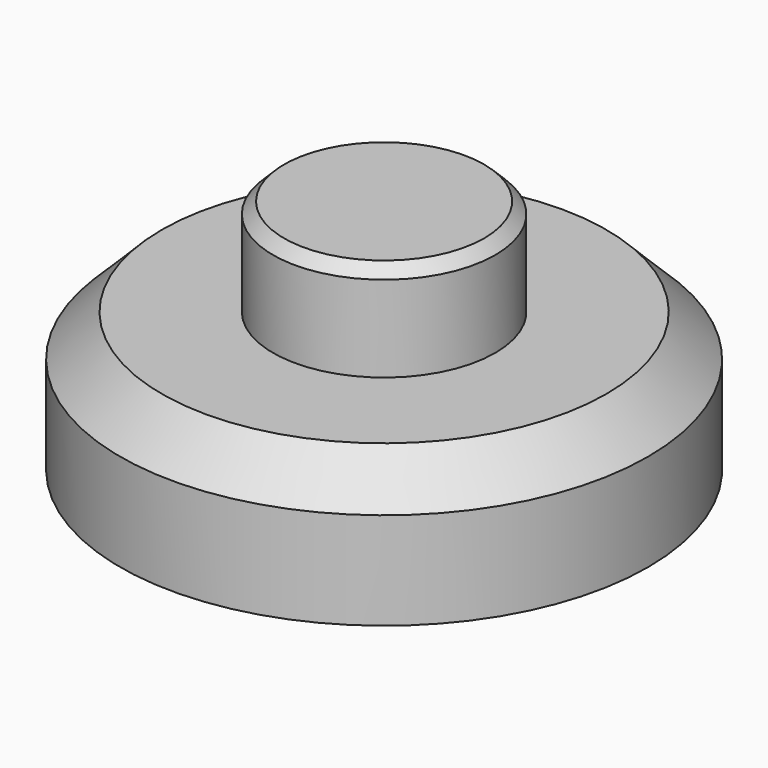
from build123d import *

# Parameters (mm, degrees)
F0_R     = 9.5
F1_DEPTH = 5
F2_R     = 4
F3_DEPTH = 3.5
F4_SIZE  = 1.5
F5_SIZE  = 0.4


with BuildPart() as f1:
    # F0 (on Top) → F1 (new body)
    with BuildSketch(Plane.XY):
        Circle(F0_R)
    extrude(amount=F1_DEPTH)

    # F2 (on face) → F3 (join)
    with BuildSketch(Plane.XY.offset(5)):
        Circle(F2_R)
    extrude(amount=F3_DEPTH)

    # F4
    f4_edges = [f1.edges().sort_by_distance(p)[0] for p in [
        (-9.5, 0, 5),
    ]]
    chamfer(f4_edges, length=F4_SIZE)

    # F5
    f5_edges = [f1.edges().sort_by_distance(p)[0] for p in [
        (-4, 0, 8.5),
    ]]
    chamfer(f5_edges, length=F5_SIZE)


solid = f1.part
